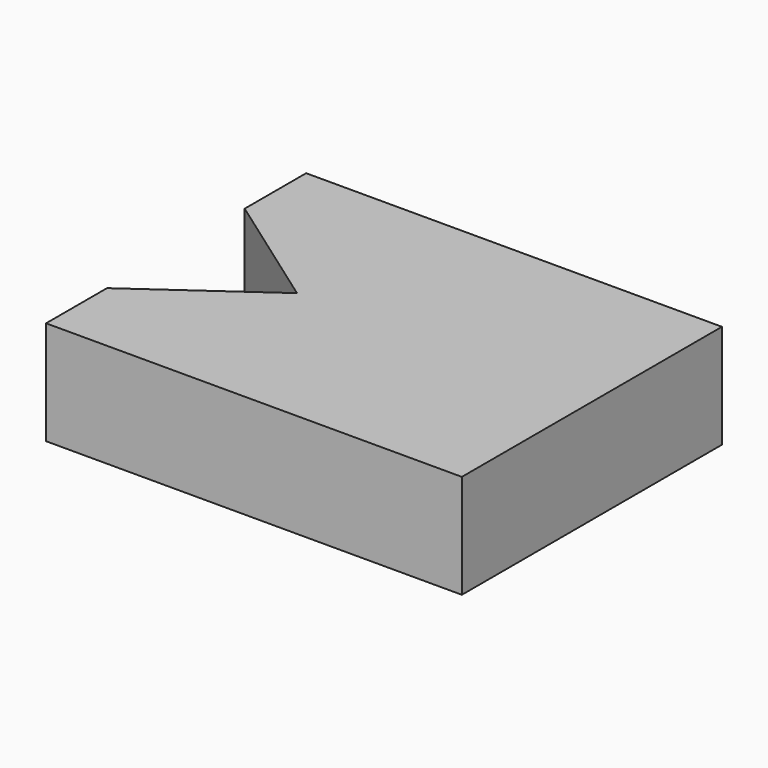
from build123d import *

# Parameters (mm, degrees)
F0_W     = 23.5931184143
F0_H     = 41.4473693818
F1_DEPTH = 25
F2_DEPTH = 25


with BuildPart() as f1:
    # F0 (on Top) → F1 (new body)
    with BuildSketch(Plane.XY):
        Polygon((-2.3911930621, 12.2747989371), (-20.5642711371, 12.2747989371), (-78.9094138891, 12.2747989371), (-78.9094138891, -6.0576931573), (21.2019253522, -6.0576931573), (21.2019253522, 12.2747989371), align=None)
        with Locations((9.4053661451, 32.998483628)):
            Rectangle(F0_W, F0_H)
        Polygon((-78.9094138891, 53.7221683189), (-20.5642711371, 53.7221683189), (-2.3911930621, 53.7221683189), (21.2019253522, 53.7221683189), (21.2019253522, 72.2140744328), (-78.9094138891, 72.2140744328), align=None)
        Polygon((-78.9094138891, 12.2747989371), (-20.5642711371, 12.2747989371), (-49.7368425131, 32.998483628), align=None)
    extrude(amount=F1_DEPTH)

    # F0 (on Top) → F2 (join)
    with BuildSketch(Plane.XY):
        Polygon((-78.9094138891, 53.7221683189), (-49.7368425131, 32.998483628), (-20.5642711371, 53.7221683189), align=None)
        Polygon((-49.7368425131, 32.998483628), (-20.5642711371, 12.2747989371), (-2.3911930621, 12.2747989371), (-2.3911930621, 53.7221683189), (-20.5642711371, 53.7221683189), align=None)
    extrude(amount=F2_DEPTH)


solid = f1.part
